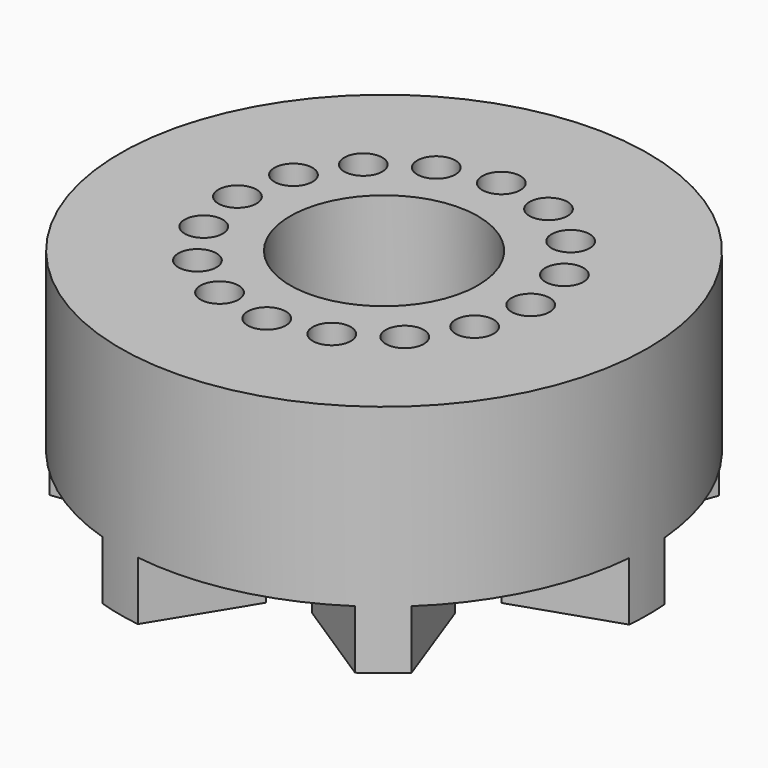
from build123d import *

# Parameters (mm, degrees)
SKETCH_R              = 45
PAD_DEPTH             = 40
SKETCH001_R           = 12
POCKET_DEPTH          = 40.001
SKETCH002_R           = 29.25
POCKET001_DEPTH       = 10
SKETCH003_R           = 3.25
POCKET002_DEPTH       = 15
POLARPATTERN_COUNT    = 16
SKETCH004_R           = 16
POCKET003_DEPTH       = 40.001
POCKET004_DEPTH       = 10
POLARPATTERN001_COUNT = 7


with BuildPart() as part:
    # Sketch → Pad (new body)
    with BuildSketch(Plane.XY):
        Circle(SKETCH_R)
    extrude(amount=PAD_DEPTH)

    # Sketch001 → Pocket (cut, through all)
    with BuildSketch(Plane(origin=(0, 0, 0), x_dir=(1, 0, 0), z_dir=(0, 0, -1))):
        Circle(SKETCH001_R)
    extrude(amount=-POCKET_DEPTH, mode=Mode.SUBTRACT)

    # Sketch002 → Pocket001 (cut)
    with BuildSketch(Plane(origin=(0, 0, 0), x_dir=(1, 0, 0), z_dir=(0, 0, -1))):
        Circle(SKETCH002_R)
    extrude(amount=-POCKET001_DEPTH, mode=Mode.SUBTRACT)

    # Sketch003 → Pocket002 (cut)
    with BuildSketch(Plane.XY.offset(40)):
        with Locations((0, 25)):
            Circle(SKETCH003_R)
    pocket002 = extrude(amount=-POCKET002_DEPTH, mode=Mode.SUBTRACT)

    # PolarPattern: Pocket002 ×16 about axis
    polarpattern_axis = Axis((0, 0, 40), (0, 0, 1))
    for i in range(1, POLARPATTERN_COUNT):
        add(pocket002.rotate(polarpattern_axis, i * 360 / POLARPATTERN_COUNT), mode=Mode.SUBTRACT)

    # Sketch004 → Pocket003 (cut, through all)
    with BuildSketch(Plane.XY.offset(40)):
        Circle(SKETCH004_R)
    extrude(amount=-POCKET003_DEPTH, mode=Mode.SUBTRACT)

    # Sketch005 → Pocket004 (cut)
    with BuildSketch(Plane(origin=(0, 0, 0), x_dir=(1, 0, 0), z_dir=(0, 0, -1))):
        Polygon((-12.266942, 54.255708), (34.539446, 43.617943), (8.189071, 26.52432), (11.054546, 21.833583), (-0.504584, 24.460645), (4.106836, 27.452097), align=None)
    pocket004 = extrude(amount=-POCKET004_DEPTH, mode=Mode.SUBTRACT)

    # PolarPattern001: Pocket004 ×7 about axis
    polarpattern001_axis = Axis((0, 0, 0), (0, 0, -1))
    for i in range(1, POLARPATTERN001_COUNT):
        add(pocket004.rotate(polarpattern001_axis, i * 360 / POLARPATTERN001_COUNT), mode=Mode.SUBTRACT)


solid = part.part
